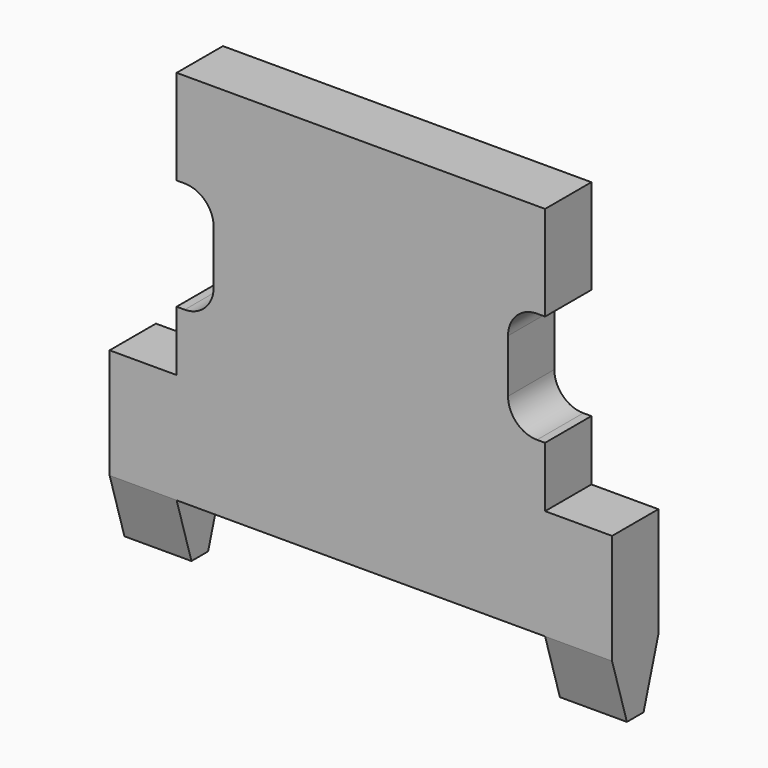
from build123d import *

# Parameters (mm, degrees)
F1_DEPTH  = 1.5875
F3_DEPTH  = 25.4
F4_W      = 1.5875
F4_H      = 3.048
F5_DEPTH  = 1.016
F6_R      = 0.79375
F7_W      = 1.5875
F7_H      = 3.048
F8_DEPTH  = 1.016
F9_R      = 0.79375
F10_DEPTH = 0.254


with BuildPart() as f1:
    # F0 (on Front) → F1 (new body)
    with BuildSketch(Plane.XZ):
        Polygon((-11.9713607894, 7.553705716), (-11.9713607894, 0), (-13.8092668185, 0), (-13.8092668185, -4.699), (-11.9713607894, -4.699), (-11.9713607894, -3.025394284), (-1.862878878, -3.025394284), (-1.862878878, -4.699), (-0.0249728489, -4.699), (-0.0249728489, 0), (-1.862878878, 0), (-1.862878878, 7.553705716), align=None)
    extrude(amount=F1_DEPTH)

    # F2 (on face) → F3 (cut)
    with BuildSketch(Plane(origin=(-13.8092668185, 0, 0), x_dir=(0, -1, 0), z_dir=(-1, 0, 0))):
        Polygon((0.508, -4.699), (0, -3.0226), (0, -4.699), align=None)
        Polygon((1.5875, -3.0226), (1.0795, -4.699), (1.5875, -4.699), align=None)
    extrude(amount=-F3_DEPTH, mode=Mode.SUBTRACT)

    # F4 (on face) → F5 (cut)
    with BuildSketch(Plane.YZ.offset(-1.862878878)):
        with Locations((-0.79375, 3.175)):
            Rectangle(F4_W, F4_H)
    extrude(amount=-F5_DEPTH, mode=Mode.SUBTRACT)

    # F6
    f6_edges = [f1.edges().sort_by_distance(p)[0] for p in [
        (-2.878879, -0.79375, 4.699),
        (-2.878879, -0.79375, 1.651),
    ]]
    fillet(f6_edges, radius=F6_R)

    # F7 (on face) → F8 (cut)
    with BuildSketch(Plane(origin=(-11.9713607894, 0, 0), x_dir=(0, -1, 0), z_dir=(-1, 0, 0))):
        with Locations((0.79375, 3.175)):
            Rectangle(F7_W, F7_H)
    extrude(amount=-F8_DEPTH, mode=Mode.SUBTRACT)

    # F9
    f9_edges = [f1.edges().sort_by_distance(p)[0] for p in [
        (-10.955361, -0.79375, 4.699),
        (-10.955361, -0.79375, 1.651),
    ]]
    fillet(f9_edges, radius=F9_R)

    # F10 (cut): a face of the model
    f10_faces = [f1.faces().sort_by_distance(p)[0] for p in [
        (-6.9171198337, -0.79375, 7.553705716),
    ]]
    extrude(f10_faces, amount=-F10_DEPTH, mode=Mode.SUBTRACT)


solid = f1.part
